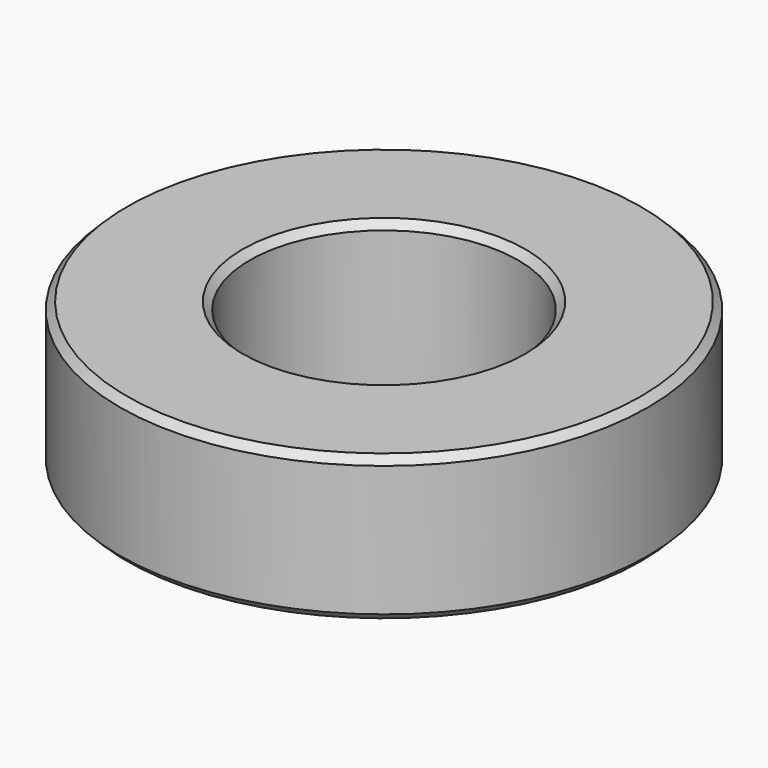
from build123d import *

# Parameters (mm, degrees)
F1_R     = 36.388832
F1_R_2   = 18.497226
F2_DEPTH = 20
F3_SIZE  = 1
F4_SIZE  = 1


with BuildPart() as f2:
    # F1 (on face) → F2 (new body)
    with BuildSketch(Plane.XY):
        Circle(F1_R)
        Circle(F1_R_2, mode=Mode.SUBTRACT)
    extrude(amount=F2_DEPTH)

    # F3
    f3_edges = [f2.edges().sort_by_distance(p)[0] for p in [
        (-36.388832, 0, 20),
        (-36.388832, 0, 0),
    ]]
    chamfer(f3_edges, length=F3_SIZE)

    # F4
    f4_edges = [f2.edges().sort_by_distance(p)[0] for p in [
        (-18.497226, 0, 20),
    ]]
    chamfer(f4_edges, length=F4_SIZE)


solid = f2.part
